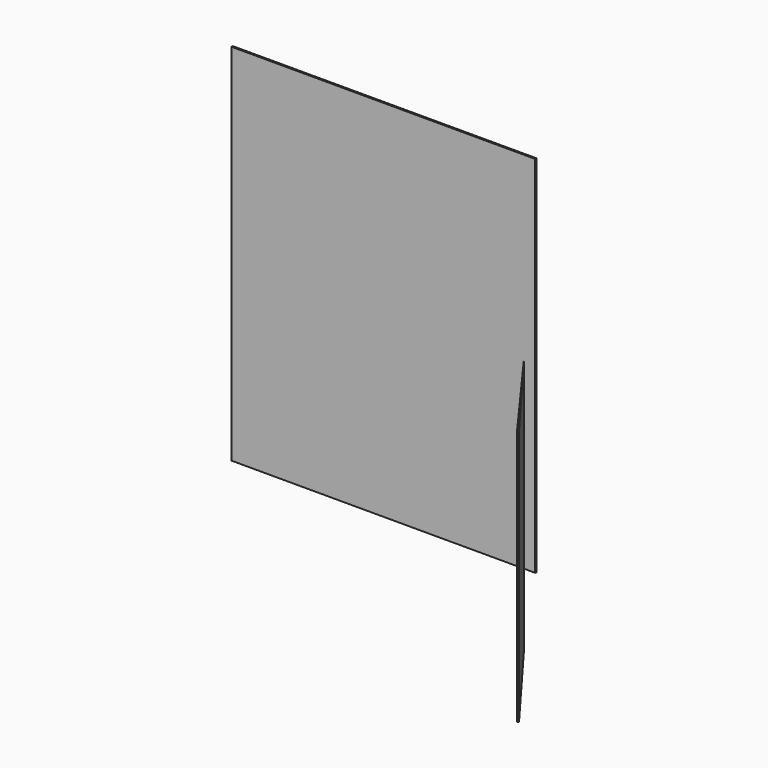
from build123d import *

# Parameters (mm, degrees)
F0_W     = 635
F0_H     = 762
F1_DEPTH = 3.175
F3_DEPTH = 535.94


with BuildPart() as f1:
    # F0 (on Front) → F1 (new body)
    with BuildSketch(Plane.XZ):
        with Locations((-443.691645, -2.938756)):
            Rectangle(F0_W, F0_H)
    extrude(amount=F1_DEPTH)

    # F2 (on Top) → F3 (join)
    with BuildSketch(Plane.XY):
        Polygon((0, -203.323487), (-152.235212, 0), (-152.235212, -0.024561), (-2.541544, -205.226427), align=None)
    extrude(amount=-F3_DEPTH)


solid = f1.part
